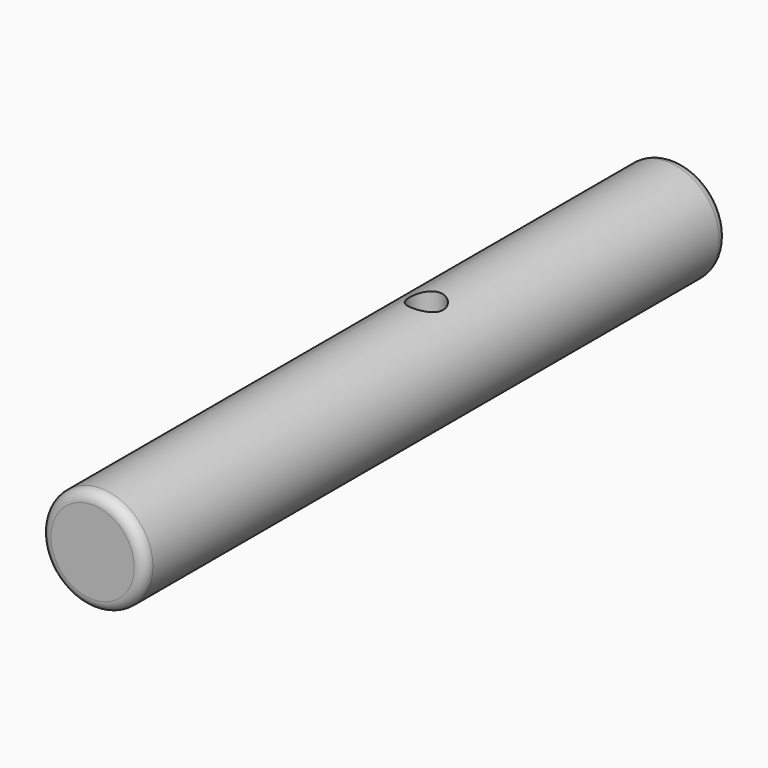
from build123d import *

# Parameters (mm, degrees)
F0_R     = 25.4
F1_DEPTH = 355.6
F2_R     = 5.08
F3_R     = 5.08
F4_R     = 8.254169
F5_DEPTH = 88.9


with BuildPart() as f1:
    # F0 (on Front) → F1 (new body)
    with BuildSketch(Plane.XZ):
        Circle(F0_R)
    extrude(amount=F1_DEPTH)

    # F2
    f2_edges = [f1.edges().sort_by_distance(p)[0] for p in [
        (-25.4, -355.6, 0),
    ]]
    fillet(f2_edges, radius=F2_R)

    # F3
    f3_edges = [f1.edges().sort_by_distance(p)[0] for p in [
        (-25.4, 0, 0),
    ]]
    fillet(f3_edges, radius=F3_R)

    # F4 (on Top) → F5 (cut, symmetric)
    with BuildSketch(Plane.XY):
        with Locations((0, -151.942372)):
            Circle(F4_R)
    extrude(amount=F5_DEPTH, both=True, mode=Mode.SUBTRACT)


solid = f1.part
